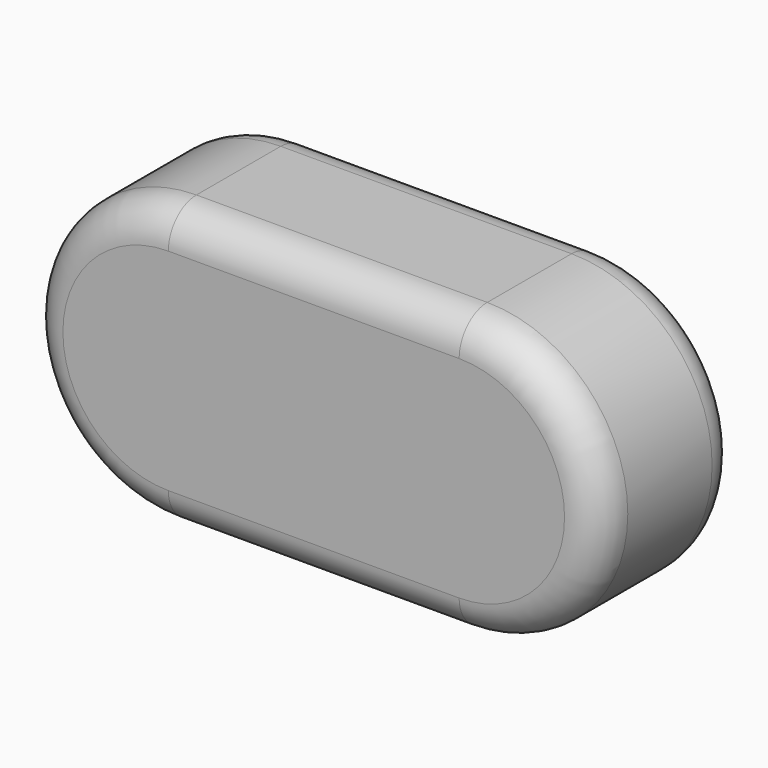
from build123d import *

# Parameters (mm, degrees)
F1_DEPTH = 12.5
F2_R     = 5


with BuildPart() as f1:
    # F0 (on Front) → F1 (new body, symmetric)
    with BuildSketch(Plane.XZ):
        with BuildLine():
            ThreePointArc((-18.81171, 20), (-38.81171, 0), (-18.81171, -20))
            Line((-18.81171, -20), (22.574065, -20))
            ThreePointArc((22.574065, -20), (42.574065, 0), (22.574065, 20))
            Line((22.574065, 20), (-18.81171, 20))
        make_face()
    extrude(amount=F1_DEPTH, both=True)

    # F2
    f2_edges = [f1.edges().sort_by_distance(p)[0] for p in [
        (42.574065, -12.5, 0),
        (42.574065, 12.5, 0),
    ]]
    fillet(f2_edges, radius=F2_R)


solid = f1.part
